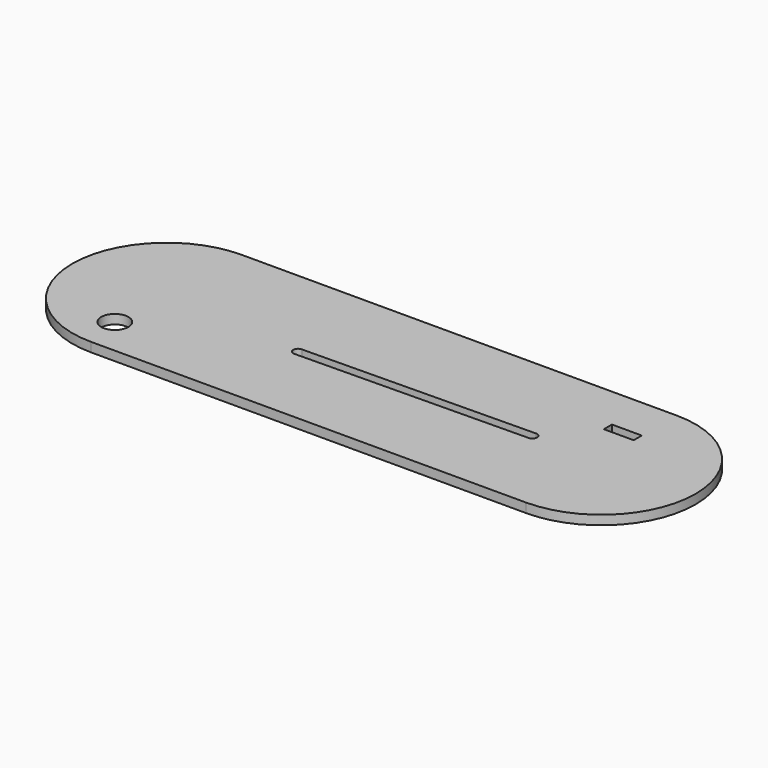
from build123d import *

# Parameters (mm, degrees)
F0_R     = 4.7
F0_W     = 10.3
F0_H     = 3.5
F1_DEPTH = 3.2


with BuildPart() as f1:
    # F0 (on Top) → F1 (new body)
    with BuildSketch(Plane.XY):
        with BuildLine():
            Line((77.72588, 61.200562), (-72.27412, 61.200562))
            ThreePointArc((-72.27412, 61.200562), (-104.77412, 28.700562), (-72.27412, -3.799438))
            Line((-72.27412, -3.799438), (77.72588, -3.799438))
            ThreePointArc((77.72588, -3.799438), (110.22588, 28.700562), (77.72588, 61.200562))
        make_face()
        with Locations((-74.579686, 9.254033)):
            Circle(F0_R, mode=Mode.SUBTRACT)
        with BuildLine():
            ThreePointArc((54.566753, 29.356354), (55.810224, 28.919113), (56.336709, 27.710721))
            ThreePointArc((56.336709, 27.710721), (55.87263, 26.563511), (54.741448, 26.061629))
            ThreePointArc((54.741448, 26.061629), (54.709698, 26.060881), (54.67794, 26.060744))
            Line((54.67794, 26.060744), (-25.265466, 24.946777))
            ThreePointArc((-25.265466, 24.946777), (-26.915466, 26.596777), (-25.265466, 28.246777))
            Line((-25.265466, 28.246777), (54.566753, 29.356354))
        make_face(mode=Mode.SUBTRACT)
        with Locations((72.50078, 44.450562)):
            Rectangle(F0_W, F0_H, mode=Mode.SUBTRACT)
    extrude(amount=F1_DEPTH)


solid = f1.part
